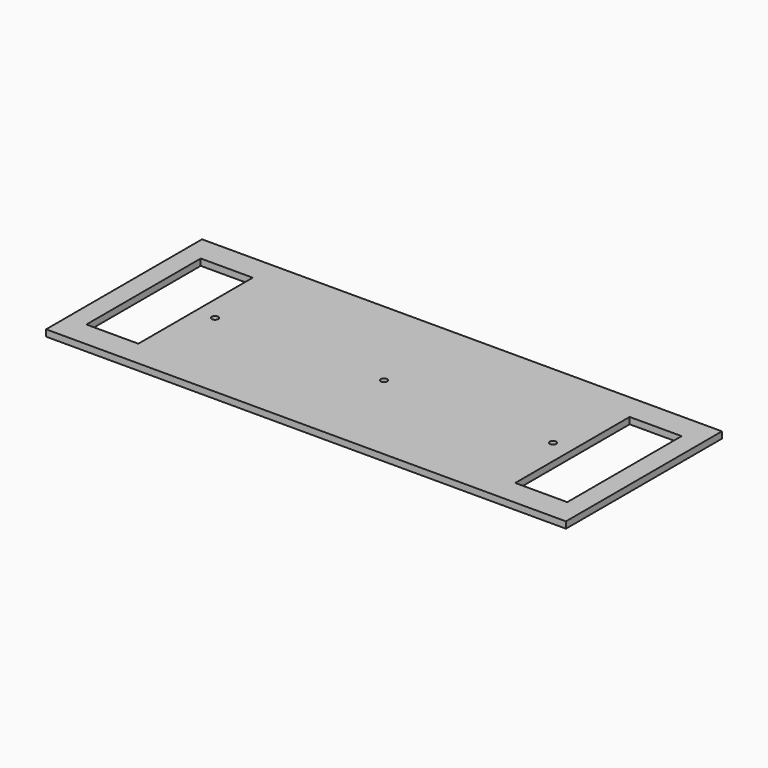
from build123d import *

# Parameters (mm, degrees)
F0_W     = 1016
F0_H     = 381
F0_R     = 6.35
F1_DEPTH = 12.7


with BuildPart() as f1:
    # F0 (on Top) → F1 (new body)
    with BuildSketch(Plane.XY):
        with Locations((124.979544, -16.168576)):
            Rectangle(F0_W, F0_H)
        Polygon((-344.920456, -155.868576), (-344.920456, -16.168576), (-344.920456, 123.531424), (-243.320456, 123.531424), (-243.320456, -155.868576), align=None, mode=Mode.SUBTRACT)
        with Locations((-205.220456, -16.168576)):
            Circle(F0_R, mode=Mode.SUBTRACT)
        with Locations((124.979544, -16.168576)):
            Circle(F0_R, mode=Mode.SUBTRACT)
        with Locations((455.179544, -16.168576)):
            Circle(F0_R, mode=Mode.SUBTRACT)
        Polygon((493.279544, -155.868576), (493.279544, 123.531424), (594.879544, 123.531424), (594.879544, -16.168576), (594.879544, -155.868576), align=None, mode=Mode.SUBTRACT)
    extrude(amount=F1_DEPTH)


solid = f1.part
